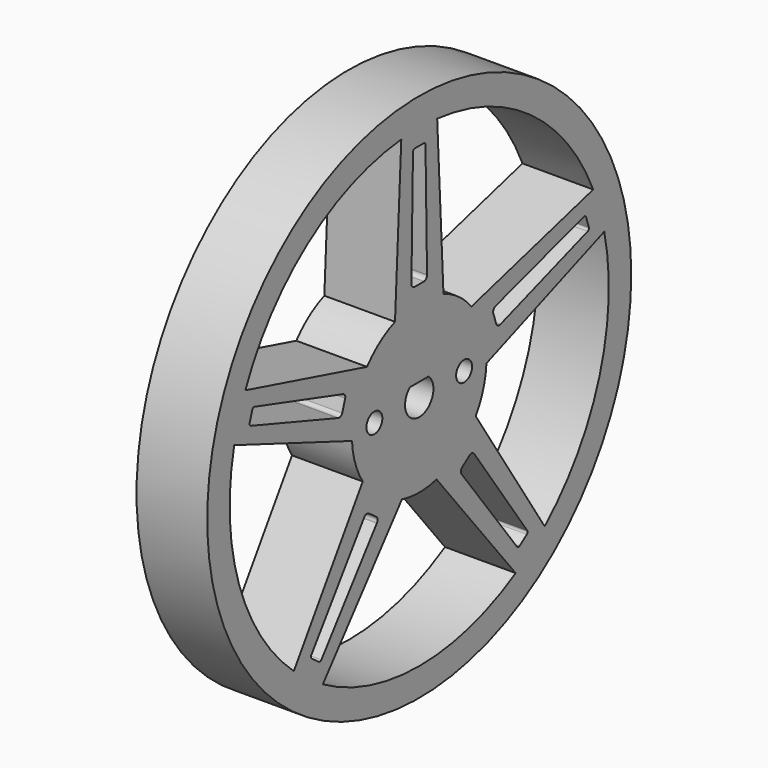
from build123d import *

# Parameters (mm, degrees)
F0_R     = 29.99994
F0_R_2   = 1.1303
F1_DEPTH = 8.000009


with BuildPart() as f1:
    # F0 (on Right) → F1 (new body)
    with BuildSketch(Plane.YZ):
        Circle(F0_R)
        with BuildLine():
            Line((-13.640059, -23.095236), (-2.449158, -9.204741))
            ThreePointArc((-2.449158, -9.204741), (0, -9.525), (2.449158, -9.204741))
            Line((2.449158, -9.204741), (13.640059, -23.095236))
            ThreePointArc((13.640059, -23.095236), (0, -26.8224), (-13.640059, -23.095236))
        make_face(mode=Mode.SUBTRACT)
        with BuildLine():
            Line((-26.179885, 5.835646), (-9.51106, -0.515133))
            ThreePointArc((-9.51106, -0.515133), (-9.058813, -2.943387), (-7.997397, -5.173709))
            Line((-7.997397, -5.173709), (-17.749865, -20.109287))
            ThreePointArc((-17.749865, -20.109287), (-25.509618, -8.288577), (-26.179885, 5.835646))
        make_face(mode=Mode.SUBTRACT)
        with BuildLine():
            ThreePointArc((-6.05216, -9.489048), (-5.897812, -9.781454), (-5.973962, -10.103209))
            ThreePointArc((-5.973962, -10.103209), (-5.98861, -10.123802), (-6.004343, -10.143579))
            Line((-6.004343, -10.143579), (-13.850079, -20.568703))
            ThreePointArc((-13.850079, -20.568703), (-14.017097, -20.66058), (-14.203454, -20.620481))
            Line((-14.203454, -20.620481), (-15.222134, -19.880366))
            ThreePointArc((-15.222134, -19.880366), (-15.317858, -19.715522), (-15.282089, -19.528287))
            Line((-15.282089, -19.528287), (-7.791673, -8.845008))
            ThreePointArc((-7.791673, -8.845008), (-7.777726, -8.823934), (-7.762667, -8.803639))
            ThreePointArc((-7.762667, -8.803639), (-7.480192, -8.631788), (-7.1544, -8.688223))
            Line((-7.1544, -8.688223), (-6.05216, -9.489048))
        make_face(mode=Mode.SUBTRACT)
        with BuildLine():
            ThreePointArc((7.1544, -8.688223), (7.480192, -8.631788), (7.762667, -8.803639))
            ThreePointArc((7.762667, -8.803639), (7.777726, -8.823934), (7.791673, -8.845008))
            Line((7.791673, -8.845008), (15.282089, -19.528287))
            ThreePointArc((15.282089, -19.528287), (15.317858, -19.715522), (15.222134, -19.880366))
            Line((15.222134, -19.880366), (14.203454, -20.620481))
            ThreePointArc((14.203454, -20.620481), (14.017097, -20.66058), (13.850079, -20.568703))
            Line((13.850079, -20.568703), (6.004343, -10.143579))
            ThreePointArc((6.004343, -10.143579), (5.98861, -10.123802), (5.973962, -10.103209))
            ThreePointArc((5.973962, -10.103209), (5.897812, -9.781454), (6.05216, -9.489048))
            Line((6.05216, -9.489048), (7.1544, -8.688223))
        make_face(mode=Mode.SUBTRACT)
        with BuildLine():
            ThreePointArc((1.32334, 1.508382), (0, -2.0066), (-1.32334, 1.508382))
            Line((-1.32334, 1.508382), (1.32334, 1.508382))
        make_face(mode=Mode.SUBTRACT)
        with BuildLine():
            Line((17.749865, -20.109287), (7.997397, -5.173709))
            ThreePointArc((7.997397, -5.173709), (9.058813, -2.943387), (9.51106, -0.515133))
            Line((9.51106, -0.515133), (26.179885, 5.835646))
            ThreePointArc((26.179885, 5.835646), (25.509618, -8.288577), (17.749865, -20.109287))
        make_face(mode=Mode.SUBTRACT)
        with BuildLine():
            ThreePointArc((-10.894841, 2.823669), (-11.12524, 2.586517), (-11.454779, 2.559512))
            ThreePointArc((-11.454779, 2.559512), (-11.478891, 2.56708), (-11.502561, 2.575932))
            Line((-11.502561, 2.575932), (-23.841909, 6.816129))
            ThreePointArc((-23.841909, 6.816129), (-23.980901, 6.946581), (-24.000351, 7.136208))
            Line((-24.000351, 7.136208), (-23.61125, 8.333739))
            ThreePointArc((-23.61125, 8.333739), (-23.484054, 8.475717), (-23.294929, 8.499558))
            Line((-23.294929, 8.499558), (-10.819862, 4.677063))
            ThreePointArc((-10.819862, 4.677063), (-10.795509, 4.670311), (-10.771554, 4.662261))
            ThreePointArc((-10.771554, 4.662261), (-10.520825, 4.446716), (-10.473823, 4.11943))
            Line((-10.473823, 4.11943), (-10.894841, 2.823669))
        make_face(mode=Mode.SUBTRACT)
        with Locations((-6.35, 0)):
            Circle(F0_R_2, mode=Mode.SUBTRACT)
        with BuildLine():
            ThreePointArc((-24.610079, 10.667013), (-15.765811, 21.699777), (-2.54, 26.701864))
            Line((-2.54, 26.701864), (-3.429, 8.886371))
            ThreePointArc((-3.429, 8.886371), (-5.598655, 7.705887), (-7.391821, 6.007212))
            Line((-7.391821, 6.007212), (-24.610079, 10.667013))
        make_face(mode=Mode.SUBTRACT)
        with Locations((6.35, 0)):
            Circle(F0_R_2, mode=Mode.SUBTRACT)
        with BuildLine():
            ThreePointArc((10.473823, 4.11943), (10.520825, 4.446716), (10.771554, 4.662261))
            ThreePointArc((10.771554, 4.662261), (10.795509, 4.670311), (10.819862, 4.677063))
            Line((10.819862, 4.677063), (23.294929, 8.499558))
            ThreePointArc((23.294929, 8.499558), (23.484054, 8.475717), (23.61125, 8.333739))
            Line((23.61125, 8.333739), (24.000351, 7.136208))
            ThreePointArc((24.000351, 7.136208), (23.980901, 6.946581), (23.841909, 6.816129))
            Line((23.841909, 6.816129), (11.502561, 2.575932))
            ThreePointArc((11.502561, 2.575932), (11.478891, 2.56708), (11.454779, 2.559512))
            ThreePointArc((11.454779, 2.559512), (11.12524, 2.586517), (10.894841, 2.823669))
            Line((10.894841, 2.823669), (10.473823, 4.11943))
        make_face(mode=Mode.SUBTRACT)
        with BuildLine():
            Line((0.681222, 11.234171), (-0.681222, 11.234171))
            ThreePointArc((-0.681222, 11.234171), (-0.977964, 11.38001), (-1.105481, 11.685075))
            ThreePointArc((-1.105481, 11.685075), (-1.105734, 11.710345), (-1.10463, 11.735592))
            Line((-1.10463, 11.735592), (-0.885031, 24.781302))
            ThreePointArc((-0.885031, 24.781302), (-0.803914, 24.953804), (-0.629579, 25.0309))
            Line((-0.629579, 25.0309), (0.629579, 25.0309))
            ThreePointArc((0.629579, 25.0309), (0.803914, 24.953804), (0.885031, 24.781302))
            Line((0.885031, 24.781302), (1.10463, 11.735592))
            ThreePointArc((1.10463, 11.735592), (1.105734, 11.710345), (1.105481, 11.685075))
            ThreePointArc((1.105481, 11.685075), (0.977964, 11.38001), (0.681222, 11.234171))
        make_face(mode=Mode.SUBTRACT)
        with BuildLine():
            Line((3.429, 8.886371), (2.54, 26.701864))
            ThreePointArc((2.54, 26.701864), (15.765811, 21.699777), (24.610079, 10.667013))
            Line((24.610079, 10.667013), (7.391821, 6.007212))
            ThreePointArc((7.391821, 6.007212), (5.598655, 7.705887), (3.429, 8.886371))
        make_face(mode=Mode.SUBTRACT)
    extrude(amount=F1_DEPTH)


solid = f1.part
